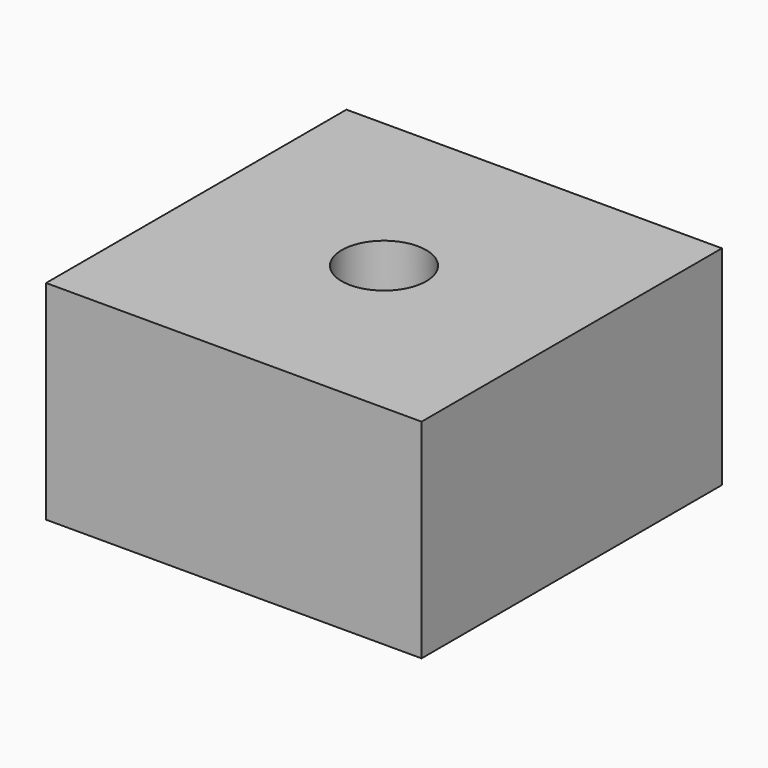
from build123d import *

# Parameters (mm, degrees)
F0_W     = 20
F0_H     = 20
F1_DEPTH = 4
F3_DEPTH = 3.1
F4_W     = 20
F4_H     = 20
F5_DEPTH = 4
F6_R     = 2.25
F7_DEPTH = 25


with BuildPart() as f1:
    # F0 (on Top) → F1 (new body)
    with BuildSketch(Plane.XY):
        with Locations((10, -10)):
            Rectangle(F0_W, F0_H)
    extrude(amount=F1_DEPTH)

    # F2 (on face) → F3 (join)
    with BuildSketch(Plane.XY.offset(4)):
        Polygon((20, 0), (0, 0), (7.101437, -7.101437), (11.060948, -6.040489), (12.510229, -7.489771), align=None)
        Polygon((12.898563, -12.898563), (20, -20), (20, 0), (12.510229, -7.489771), (13.959511, -8.939052), align=None)
        Polygon((0, 0), (0, -20), (7.489771, -12.510229), (6.040489, -11.060948), (7.101437, -7.101437), align=None)
        Polygon((7.489771, -12.510229), (0, -20), (20, -20), (12.898563, -12.898563), (8.939052, -13.959511), align=None)
    extrude(amount=F3_DEPTH)

    # F4 (on face) → F5 (join)
    with BuildSketch(Plane.XY.offset(7.1)):
        with Locations((10, -10)):
            Rectangle(F4_W, F4_H)
        with Locations((10, -10)):
            Rectangle(F4_W, F4_H)
    extrude(amount=F5_DEPTH)

    # F6 (on face) → F7 (cut)
    with BuildSketch(Plane.XY.offset(11.1)):
        with Locations((10, -10)):
            Circle(F6_R)
    extrude(amount=-F7_DEPTH, mode=Mode.SUBTRACT)


solid = f1.part
